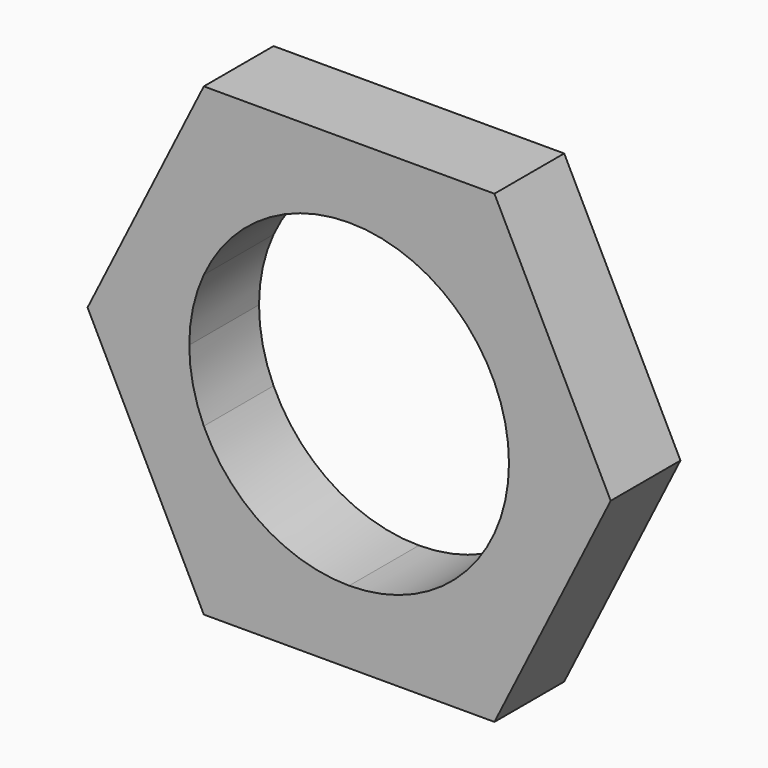
from build123d import *

# Parameters (mm, degrees)
F1_DEPTH = 1.5


with BuildPart() as f1:
    # F0 (on Front) → F1 (new body)
    with BuildSketch(Plane.XZ):
        with BuildLine():
            Line((2.5, -1.1456439237), (2.5, -4))
            Line((2.5, -4), (4.5, 0))
            Line((4.5, 0), (2.75, 0))
            ThreePointArc((2.75, 0), (2.6867731575, -0.58630197), (2.5, -1.1456439237))
        make_face()
        with BuildLine():
            Line((0, -4), (2.5, -4))
            Line((2.5, -4), (2.5, -1.1456439237))
            ThreePointArc((2.5, -1.1456439237), (1.4852574204, -2.314413618), (0, -2.75))
            Line((0, -2.75), (0, -4))
        make_face()
        with BuildLine():
            Line((-2.5, -4), (0, -4))
            Line((0, -4), (0, -2.75))
            ThreePointArc((0, -2.75), (-1.4852574204, -2.314413618), (-2.5, -1.1456439237))
            Line((-2.5, -1.1456439237), (-2.5, -4))
        make_face()
        with BuildLine():
            Line((-4.5, 0), (-2.5, -4))
            Line((-2.5, -4), (-2.5, -1.1456439237))
            ThreePointArc((-2.5, -1.1456439237), (-2.6867731575, -0.58630197), (-2.75, 0))
            Line((-2.75, 0), (-4.5, 0))
        make_face()
        with BuildLine():
            Line((-2.5, 4), (-4.5, 0))
            Line((-4.5, 0), (-2.75, 0))
            ThreePointArc((-2.75, 0), (-2.6867731575, 0.58630197), (-2.5, 1.1456439237))
            Line((-2.5, 1.1456439237), (-2.5, 4))
        make_face()
        with BuildLine():
            Line((0, 2.75), (0, 4))
            Line((0, 4), (-2.5, 4))
            Line((-2.5, 4), (-2.5, 1.1456439237))
            ThreePointArc((-2.5, 1.1456439237), (-1.4852574204, 2.314413618), (0, 2.75))
        make_face()
        with BuildLine():
            Line((2.5, 1.1456439237), (2.5, 4))
            Line((2.5, 4), (0, 4))
            Line((0, 4), (0, 2.75))
            ThreePointArc((0, 2.75), (1.4852574204, 2.314413618), (2.5, 1.1456439237))
        make_face()
        with BuildLine():
            Line((2.75, 0), (4.5, 0))
            Line((4.5, 0), (2.5, 4))
            Line((2.5, 4), (2.5, 1.1456439237))
            ThreePointArc((2.5, 1.1456439237), (2.6867731575, 0.58630197), (2.75, 0))
        make_face()
    extrude(amount=F1_DEPTH)


solid = f1.part
